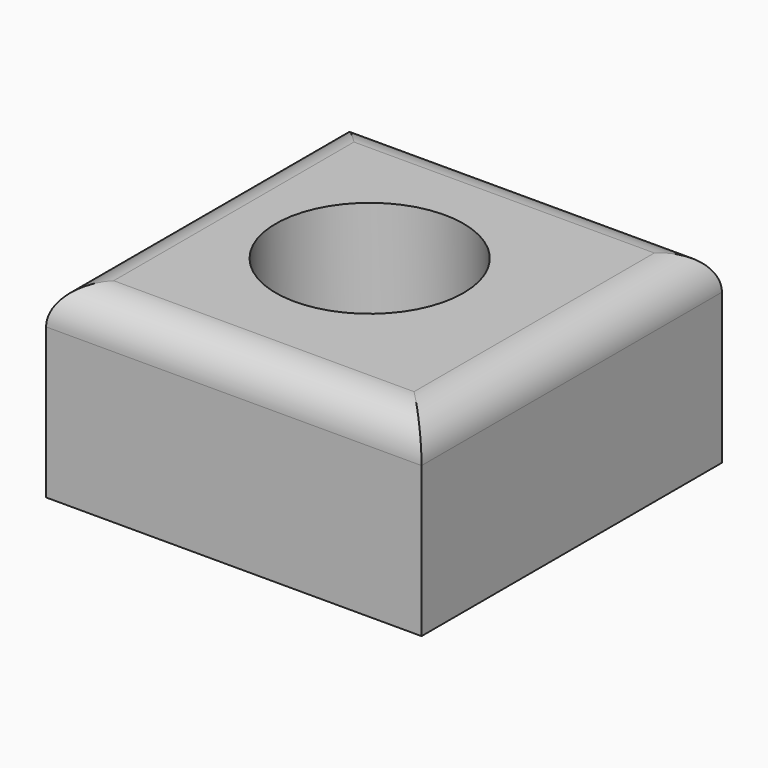
from build123d import *

# Parameters (mm, degrees)
F0_W     = 50.8
F0_H     = 50.8
F1_DEPTH = 25.4
F2_R     = 12.7
F3_DEPTH = 25.4
F4_R     = 5.08


with BuildPart() as f1:
    # F0 (on Top) → F1 (new body)
    with BuildSketch(Plane.XY):
        with Locations((2.406318, -0.585664)):
            Rectangle(F0_W, F0_H)
    extrude(amount=F1_DEPTH)

    # F2 (on face) → F3 (cut)
    with BuildSketch(Plane.XY.offset(25.4)):
        Circle(F2_R)
    extrude(amount=-F3_DEPTH, mode=Mode.SUBTRACT)

    # F4
    f4_edges = [f1.edges().sort_by_distance(p)[0] for p in [
        (2.406318, -25.985664, 25.4),
        (27.806318, -0.585664, 25.4),
        (2.406318, 24.814336, 25.4),
        (-22.993682, -0.585664, 25.4),
    ]]
    fillet(f4_edges, radius=F4_R)


solid = f1.part
